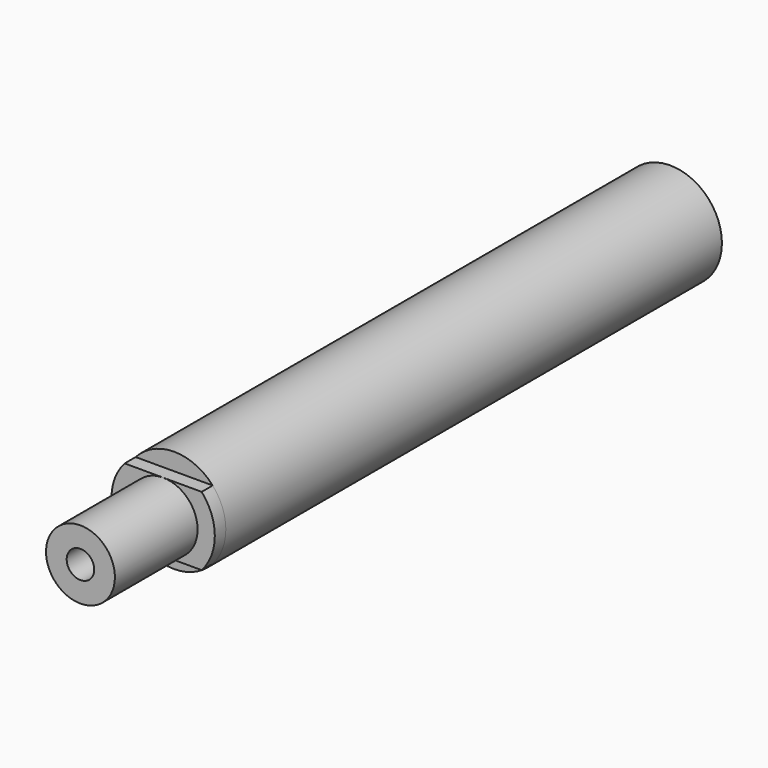
from build123d import *

# Parameters (mm, degrees)
SKETCH053_R       = 7.5
SKETCH053_R_2     = 5
PAD_DEPTH         = 90
SKETCH055_R       = 5
SKETCH055_R_2     = 2
PAD026_DEPTH      = 5
PAD026_DEPTH_BACK = 17
SKETCH085_R       = 2
PAD046_DEPTH      = 2


with BuildPart() as part:
    # Sketch053 → Pad (new body)
    with BuildSketch(Plane.XZ.offset(-66)):
        Circle(SKETCH053_R)
        Circle(SKETCH053_R_2, mode=Mode.SUBTRACT)
    extrude(amount=-PAD_DEPTH)

    # Sketch055 → Pad026 (join, two sides)
    with BuildSketch(Plane.XZ.offset(-66)) as pad026_sk:
        Circle(SKETCH055_R)
        Circle(SKETCH055_R_2, mode=Mode.SUBTRACT)
    extrude(amount=-PAD026_DEPTH)
    extrude(pad026_sk.sketch, amount=PAD026_DEPTH_BACK)

    # Sketch085 → Pad046 (join)
    with BuildSketch(Plane.XZ.offset(-66)):
        with BuildLine():
            ThreePointArc((-5.59017, 5), (-7.5, 0), (-5.59017, -5))
            Line((-5.59017, -5), (5.59017, -5))
            ThreePointArc((5.59017, -5), (7.5, 0), (5.59017, 5))
            Line((-5.59017, 5), (5.59017, 5))
        make_face()
        Circle(SKETCH085_R, mode=Mode.SUBTRACT)
    extrude(amount=PAD046_DEPTH)


solid = part.part
